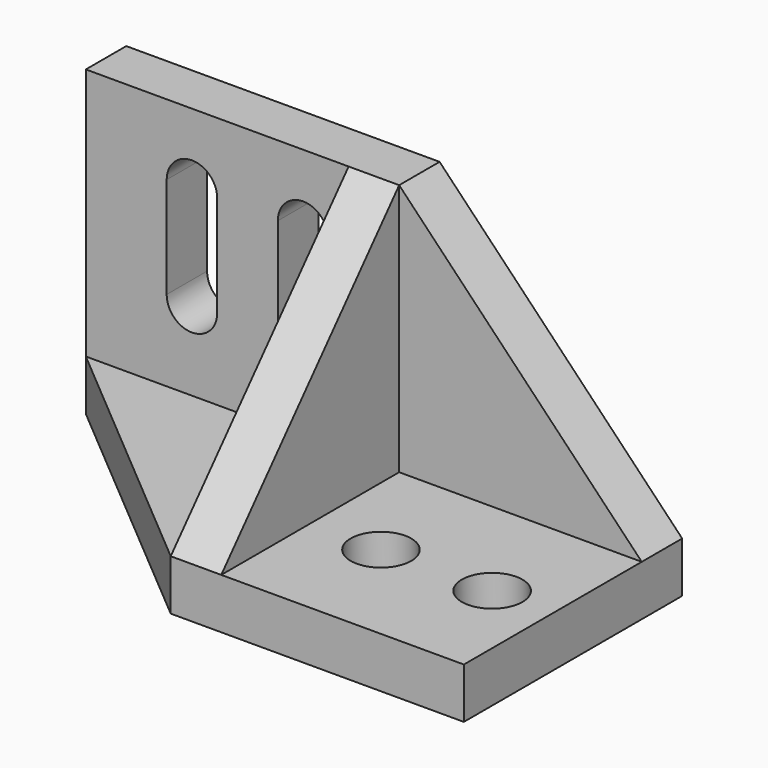
from build123d import *

# Parameters (mm, degrees)
F0_W      = 10
F0_H      = 44
F1_DEPTH  = 60
F0_W_2    = 48
F2_DEPTH  = 10
F4_DEPTH  = 25
F6_DEPTH  = 25
F7_R      = 6
F8_DEPTH  = 10.001
F10_DEPTH = 10.001


with BuildPart() as f1:
    # F0 (on Top) → F1 (new body)
    with BuildSketch(Plane.XY):
        Polygon((82.506062, 0), (-27.493938, 0), (-27.493938, -10), (24.506062, -10), (34.506062, -10), (82.506062, -10), align=None)
        with Locations((29.506062, -32)):
            Rectangle(F0_W, F0_H)
    extrude(amount=F1_DEPTH)

    # F0 (on Top) → F2 (join)
    with BuildSketch(Plane.XY):
        Polygon((24.506062, -10), (-27.493938, -10), (24.506062, -54), align=None)
        with Locations((58.506062, -32)):
            Rectangle(F0_W_2, F0_H)
    extrude(amount=F2_DEPTH)

    # F3 (on face) → F4 (cut)
    with BuildSketch(Plane.YZ.offset(34.506062)):
        Polygon((-54, 60), (-54, 10), (-10, 60), align=None)
    extrude(amount=-F4_DEPTH, mode=Mode.SUBTRACT)

    # F5 (on face) → F6 (cut)
    with BuildSketch(Plane.XZ.offset(10)):
        Polygon((82.506062, 60), (34.506062, 60), (82.506062, 10), align=None)
    extrude(amount=-F6_DEPTH, mode=Mode.SUBTRACT)

    # F7 (on face) → F8 (cut, through all)
    with BuildSketch(Plane.XY.offset(10)):
        with Locations((48.506062, -32)):
            Circle(F7_R)
        with Locations((70.506062, -32)):
            Circle(F7_R)
    extrude(amount=-F8_DEPTH, mode=Mode.SUBTRACT)

    # F9 (on face) → F10 (cut, through all)
    with BuildSketch(Plane.XZ.offset(10)):
        with BuildLine():
            ThreePointArc((-1.493938, 46), (-6.493938, 51), (-11.493938, 46))
            Line((-11.493938, 46), (-11.493938, 26))
            ThreePointArc((-11.493938, 26), (-6.493938, 21), (-1.493938, 26))
            Line((-1.493938, 26), (-1.493938, 46))
        make_face()
        with BuildLine():
            ThreePointArc((20.506062, 46), (15.506062, 51), (10.506062, 46))
            Line((10.506062, 46), (10.506062, 26))
            ThreePointArc((10.506062, 26), (15.506062, 21), (20.506062, 26))
            Line((20.506062, 26), (20.506062, 46))
        make_face()
    extrude(amount=-F10_DEPTH, mode=Mode.SUBTRACT)


solid = f1.part
